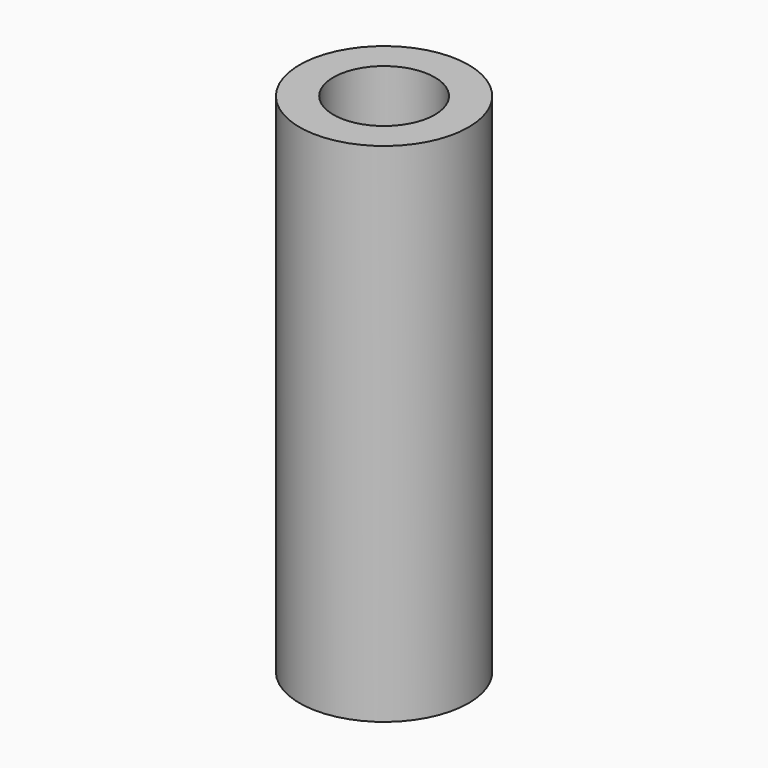
from build123d import *

# Parameters (mm, degrees)
F1_DEPTH = 381
F2_R     = 38.1
F3_DEPTH = 355.6
F4_R     = 12.78146
F5_DEPTH = 127


with BuildPart() as f1:
    # F0 (on Top) → F1 (new body)
    with BuildSketch(Plane.XY):
        with BuildLine():
            ThreePointArc((-98.444128, 2.627907), (-34.944128, -60.872093), (28.555872, 2.627907))
            ThreePointArc((28.555872, 2.627907), (-34.944128, 66.127907), (-98.444128, 2.627907))
        make_face()
    extrude(amount=F1_DEPTH)

    # F2 (on face) → F3 (cut)
    with BuildSketch(Plane.XY.offset(381)):
        with Locations((-34.944128, 2.627907)):
            Circle(F2_R)
    extrude(amount=-F3_DEPTH, mode=Mode.SUBTRACT)

    # F4 (on Right) → F5 (cut)
    with BuildSketch(Plane.YZ):
        with Locations((0, 86.451918)):
            Circle(F4_R)
    extrude(amount=-F5_DEPTH, mode=Mode.SUBTRACT)


solid = f1.part
